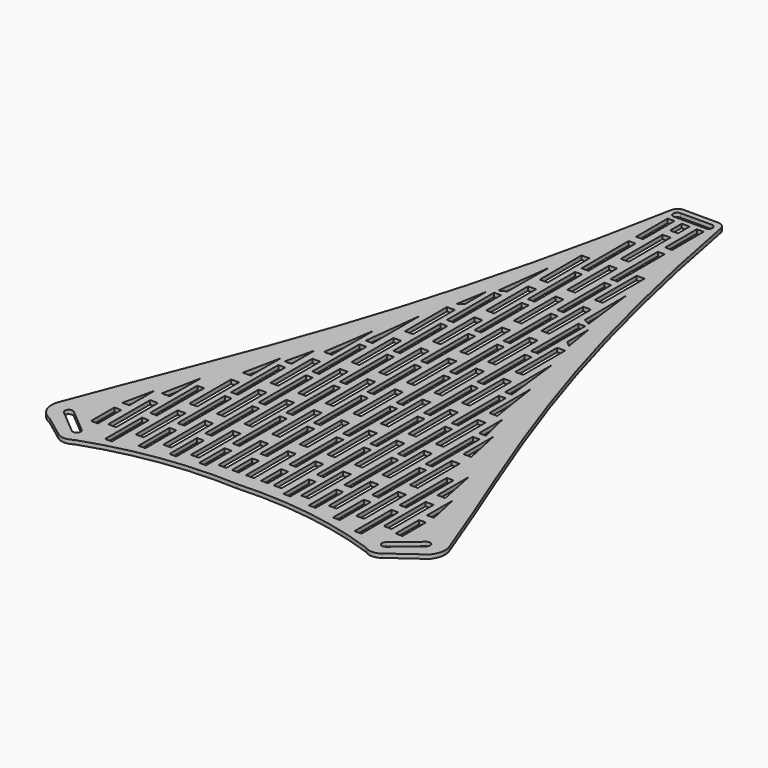
from build123d import *

# Parameters (mm, degrees)
F1_DEPTH = 1
F2_W     = 2
F2_H     = 13.290922
F2_W_2   = 1.73974
F2_H_2   = 15
F2_H_3   = 10.021881
F2_H_4   = 3.713456
F2_H_5   = 8.062586
F2_H_6   = 6.40718
F2_H_7   = 8.770011
F2_H_8   = 9.831153
F2_H_9   = 11.717625
F2_H_10  = 7.430546
F3_DEPTH = 3


with BuildPart() as f1:
    # F0 (on Top) → F1 (new body)
    with BuildSketch(Plane.XY):
        with BuildLine():
            ThreePointArc((-4.3392, 109.22676), (-5.618509, 108.764085), (-6.305914, 107.590128))
            add(Edge.make_bspline(
                [(-6.305914, 107.590128), (-19.342069, 37.032588), (-36.385595, 3.185691), (-49.664854, -32.786901)],
                knots=[1.123041, 1.123041, 1.123041, 1.123041, 146.954303, 146.954303, 146.954303, 146.954303], degree=3))
            ThreePointArc((-49.664854, -32.786901), (-49.535926, -36.56565), (-46.798527, -39.173755))
            Line((-46.798527, -39.173755), (-41.071374, -43.441049))
            ThreePointArc((-41.071374, -43.441049), (-39.078098, -44.101995), (-37.084822, -43.441049))
            ThreePointArc((-37.084822, -43.441049), (-18.805753, -38.93668), (0, -38.066402))
            ThreePointArc((0, -38.066402), (18.805753, -38.93668), (37.084822, -43.441049))
            ThreePointArc((37.084822, -43.441049), (39.078098, -44.101995), (41.071374, -43.441049))
            Line((41.071374, -43.441049), (46.798527, -39.173755))
            ThreePointArc((46.798527, -39.173755), (49.535926, -36.56565), (49.664854, -32.786901))
            add(Edge.make_bspline(
                [(6.305914, 107.590128), (19.342069, 37.032588), (36.385595, 3.185691), (49.664854, -32.786901)],
                knots=[1.123041, 1.123041, 1.123041, 1.123041, 146.954303, 146.954303, 146.954303, 146.954303], degree=3))
            ThreePointArc((6.305914, 107.590128), (5.618509, 108.764085), (4.3392, 109.22676))
            Line((4.3392, 109.22676), (0, 109.22676))
            Line((0, 109.22676), (-4.3392, 109.22676))
        make_face()
        with BuildLine():
            ThreePointArc((-46.15574, -34.125726), (-45.476851, -33.772319), (-44.746908, -34.002469))
            Line((-44.746908, -34.002469), (-38.618552, -39.14477))
            ThreePointArc((-38.618552, -39.14477), (-38.265145, -39.823659), (-38.495295, -40.553602))
            ThreePointArc((-38.495295, -40.553602), (-39.174184, -40.907009), (-39.904127, -40.676859))
            Line((-39.904127, -40.676859), (-46.032483, -35.534558))
            ThreePointArc((-46.032483, -35.534558), (-46.38589, -34.855669), (-46.15574, -34.125726))
        make_face(mode=Mode.SUBTRACT)
        with BuildLine():
            ThreePointArc((44.746908, -34.002469), (45.476851, -33.772319), (46.15574, -34.125726))
            ThreePointArc((46.15574, -34.125726), (46.38589, -34.855669), (46.032483, -35.534558))
            Line((46.032483, -35.534558), (39.904127, -40.676859))
            ThreePointArc((39.904127, -40.676859), (39.174184, -40.907009), (38.495295, -40.553602))
            ThreePointArc((38.495295, -40.553602), (38.265145, -39.823659), (38.618552, -39.14477))
            Line((38.618552, -39.14477), (44.746908, -34.002469))
        make_face(mode=Mode.SUBTRACT)
        with BuildLine():
            ThreePointArc((-5.060871, 106.71795), (-4.767978, 107.425056), (-4.060871, 107.71795))
            Line((-4.060871, 107.71795), (3.939129, 107.71795))
            ThreePointArc((3.939129, 107.71795), (4.646235, 107.425056), (4.939129, 106.71795))
            ThreePointArc((4.939129, 106.71795), (4.646235, 106.010843), (3.939129, 105.71795))
            Line((3.939129, 105.71795), (-4.060871, 105.71795))
            ThreePointArc((-4.060871, 105.71795), (-4.767978, 106.010843), (-5.060871, 106.71795))
        make_face(mode=Mode.SUBTRACT)
    extrude(amount=F1_DEPTH)

    # F2 (on face) → F3 (cut)
    with BuildSketch(Plane.XY.offset(1)):
        with Locations((0, -27.357008)):
            Rectangle(F2_W, F2_H)
        with Locations((3.690865, -17.530575)):
            Rectangle(F2_W_2, F2_H_2)
        with Locations((0, -10.357008)):
            Rectangle(F2_W, F2_H)
        with Locations((3.690865, -0.530575)):
            Rectangle(F2_W_2, F2_H_2)
        with Locations((0, 6.642992)):
            Rectangle(F2_W, F2_H)
        with Locations((3.690865, 16.469425)):
            Rectangle(F2_W_2, F2_H_2)
        with Locations((0, 23.642992)):
            Rectangle(F2_W, F2_H)
        with Locations((3.690865, 33.469425)):
            Rectangle(F2_W_2, F2_H_2)
        with Locations((0, 40.642992)):
            Rectangle(F2_W, F2_H)
        with Locations((3.690865, 50.469425)):
            Rectangle(F2_W_2, F2_H_2)
        with Locations((0, 57.642992)):
            Rectangle(F2_W, F2_H)
        with Locations((3.690865, 67.469425)):
            Rectangle(F2_W_2, F2_H_2)
        with Locations((0, 74.642992)):
            Rectangle(F2_W, F2_H)
        with Locations((3.690865, 84.469425)):
            Rectangle(F2_W_2, F2_H_2)
        with Locations((0, 91.642992)):
            Rectangle(F2_W, F2_H)
        with Locations((7, -27.357008)):
            Rectangle(F2_W, F2_H)
        with Locations((10.690865, -17.530575)):
            Rectangle(F2_W_2, F2_H_2)
        with Locations((7, -10.357008)):
            Rectangle(F2_W, F2_H)
        with Locations((10.690865, -0.530575)):
            Rectangle(F2_W_2, F2_H_2)
        with Locations((7, 6.642992)):
            Rectangle(F2_W, F2_H)
        with Locations((10.690865, 16.469425)):
            Rectangle(F2_W_2, F2_H_2)
        with Locations((7, 23.642992)):
            Rectangle(F2_W, F2_H)
        with Locations((10.690865, 33.469425)):
            Rectangle(F2_W_2, F2_H_2)
        with Locations((7, 40.642992)):
            Rectangle(F2_W, F2_H)
        with Locations((10.690865, 50.469425)):
            Rectangle(F2_W_2, F2_H_2)
        with Locations((7, 57.642992)):
            Rectangle(F2_W, F2_H)
        with Locations((7, 74.642992)):
            Rectangle(F2_W, F2_H)
        with Locations((14, -27.357008)):
            Rectangle(F2_W, F2_H)
        with Locations((17.690865, -17.530575)):
            Rectangle(F2_W_2, F2_H_2)
        with Locations((14, -10.357008)):
            Rectangle(F2_W, F2_H)
        with Locations((17.690865, -0.530575)):
            Rectangle(F2_W_2, F2_H_2)
        with Locations((14, 6.642992)):
            Rectangle(F2_W, F2_H)
        with Locations((17.690865, 16.469425)):
            Rectangle(F2_W_2, F2_H_2)
        with Locations((14, 23.642992)):
            Rectangle(F2_W, F2_H)
        Polygon((16.820995, 40.969425), (16.820995, 25.969425), (18.560735, 25.969425), align=None)
        with Locations((14, 40.642992)):
            Rectangle(F2_W, F2_H)
        with Locations((21, -27.357008)):
            Rectangle(F2_W, F2_H)
        with Locations((24.690865, -17.530575)):
            Rectangle(F2_W_2, F2_H_2)
        with Locations((21, -10.357008)):
            Rectangle(F2_W, F2_H)
        with Locations((24.690865, -0.530575)):
            Rectangle(F2_W_2, F2_H_2)
        with Locations((21, 6.642992)):
            Rectangle(F2_W, F2_H)
        Polygon((23.820995, 16.326794), (23.820995, 8.969425), (25.560735, 8.969425), align=None)
        Polygon((20, 30.288453), (20, 16.997531), (22, 16.997531), align=None)
        with Locations((28, -27.357008)):
            Rectangle(F2_W, F2_H)
        with Locations((31.690865, -17.530575)):
            Rectangle(F2_W_2, F2_H_2)
        with Locations((28, -10.357008)):
            Rectangle(F2_W, F2_H)
        Polygon((27, 9.486835), (27, -0.002469), (29, -0.002469), align=None)
        with Locations((35, -27.357008)):
            Rectangle(F2_W, F2_H)
        Polygon((37.820995, -16.99312), (37.820995, -25.030575), (39.560735, -25.030575), align=None)
        Polygon((34, -7.056083), (34, -17.002469), (36, -17.002469), align=None)
        Polygon((9.718988, 73.260348), (9.820995, 59.987538), (11.490406, 59.166081), align=None)
        Polygon((13, 57.303697), (13, 50.469425), (14.356615, 49.352072), align=None)
        with Locations((3.690865, 99.328909)):
            Rectangle(F2_W_2, F2_H_3)
        with Locations((0, 102.483122)):
            Rectangle(F2_W, F2_H_4)
        with Locations((10.690865, -31.626582)):
            Rectangle(F2_W_2, F2_H_5)
        with Locations((3.690865, -30.798879)):
            Rectangle(F2_W_2, F2_H_6)
        with Locations((17.690865, -31.980294)):
            Rectangle(F2_W_2, F2_H_7)
        with Locations((24.690865, -32.510866)):
            Rectangle(F2_W_2, F2_H_8)
        with Locations((31.690865, -33.454102)):
            Rectangle(F2_W_2, F2_H_9)
        with Locations((38.690865, -31.310562)):
            Rectangle(F2_W_2, F2_H_10)
        with Locations((-3.690865, -30.798879)):
            Rectangle(F2_W_2, F2_H_6)
        with Locations((-17.690865, -31.980294)):
            Rectangle(F2_W_2, F2_H_7)
        with Locations((-14, -27.357008)):
            Rectangle(F2_W, F2_H)
        with Locations((-24.690865, -17.530575)):
            Rectangle(F2_W_2, F2_H_2)
        Polygon((-25.560735, 8.969425), (-23.820995, 8.969425), (-23.820995, 16.326794), align=None)
        with Locations((-14, 6.642992)):
            Rectangle(F2_W, F2_H)
        with Locations((-3.690865, 67.469425)):
            Rectangle(F2_W_2, F2_H_2)
        with Locations((-7, -27.357008)):
            Rectangle(F2_W, F2_H)
        with Locations((-10.690865, 50.469425)):
            Rectangle(F2_W_2, F2_H_2)
        with Locations((-7, 6.642992)):
            Rectangle(F2_W, F2_H)
        with Locations((-31.690865, -17.530575)):
            Rectangle(F2_W_2, F2_H_2)
        with Locations((-28, -10.357008)):
            Rectangle(F2_W, F2_H)
        Polygon((-22, 16.997531), (-20, 16.997531), (-20, 30.288453), align=None)
        with Locations((-3.690865, -0.530575)):
            Rectangle(F2_W_2, F2_H_2)
        Polygon((-14.356615, 49.352072), (-13, 50.469425), (-13, 57.303697), align=None)
        with Locations((-3.690865, 16.469425)):
            Rectangle(F2_W_2, F2_H_2)
        with Locations((-3.690865, 50.469425)):
            Rectangle(F2_W_2, F2_H_2)
        with Locations((-7, 57.642992)):
            Rectangle(F2_W, F2_H)
        with Locations((-7, 40.642992)):
            Rectangle(F2_W, F2_H)
        with Locations((-7, -10.357008)):
            Rectangle(F2_W, F2_H)
        with Locations((-7, 23.642992)):
            Rectangle(F2_W, F2_H)
        with Locations((-14, 23.642992)):
            Rectangle(F2_W, F2_H)
        with Locations((-14, -10.357008)):
            Rectangle(F2_W, F2_H)
        with Locations((-10.690865, -17.530575)):
            Rectangle(F2_W_2, F2_H_2)
        with Locations((-3.690865, 33.469425)):
            Rectangle(F2_W_2, F2_H_2)
        with Locations((-10.690865, -31.626582)):
            Rectangle(F2_W_2, F2_H_5)
        with Locations((-31.690865, -33.454102)):
            Rectangle(F2_W_2, F2_H_9)
        with Locations((-14, 40.642992)):
            Rectangle(F2_W, F2_H)
        with Locations((-28, -27.357008)):
            Rectangle(F2_W, F2_H)
        with Locations((-21, -10.357008)):
            Rectangle(F2_W, F2_H)
        with Locations((-35, -27.357008)):
            Rectangle(F2_W, F2_H)
        with Locations((-21, 6.642992)):
            Rectangle(F2_W, F2_H)
        Polygon((-36, -17.002469), (-34, -17.002469), (-34, -7.056083), align=None)
        with Locations((-21, -27.357008)):
            Rectangle(F2_W, F2_H)
        Polygon((-11.490406, 59.166081), (-9.820995, 59.987538), (-9.718988, 73.260348), align=None)
        with Locations((-10.690865, -0.530575)):
            Rectangle(F2_W_2, F2_H_2)
        Polygon((-18.560735, 25.969425), (-16.820995, 25.969425), (-16.820995, 40.969425), align=None)
        with Locations((-17.690865, -0.530575)):
            Rectangle(F2_W_2, F2_H_2)
        with Locations((-10.690865, 33.469425)):
            Rectangle(F2_W_2, F2_H_2)
        with Locations((-7, 74.642992)):
            Rectangle(F2_W, F2_H)
        with Locations((-24.690865, -0.530575)):
            Rectangle(F2_W_2, F2_H_2)
        with Locations((-3.690865, -17.530575)):
            Rectangle(F2_W_2, F2_H_2)
        Polygon((-39.560735, -25.030575), (-37.820995, -25.030575), (-37.820995, -16.99312), align=None)
        with Locations((-38.690865, -31.310562)):
            Rectangle(F2_W_2, F2_H_10)
        with Locations((-10.690865, 16.469425)):
            Rectangle(F2_W_2, F2_H_2)
        with Locations((-17.690865, 16.469425)):
            Rectangle(F2_W_2, F2_H_2)
        with Locations((-17.690865, -17.530575)):
            Rectangle(F2_W_2, F2_H_2)
        Polygon((-29, -0.002469), (-27, -0.002469), (-27, 9.486835), align=None)
        with Locations((-24.690865, -32.510866)):
            Rectangle(F2_W_2, F2_H_8)
        with Locations((-3.690865, 99.328909)):
            Rectangle(F2_W_2, F2_H_3)
        with Locations((-3.690865, 84.469425)):
            Rectangle(F2_W_2, F2_H_2)
    extrude(amount=-F3_DEPTH, mode=Mode.SUBTRACT)


solid = f1.part
